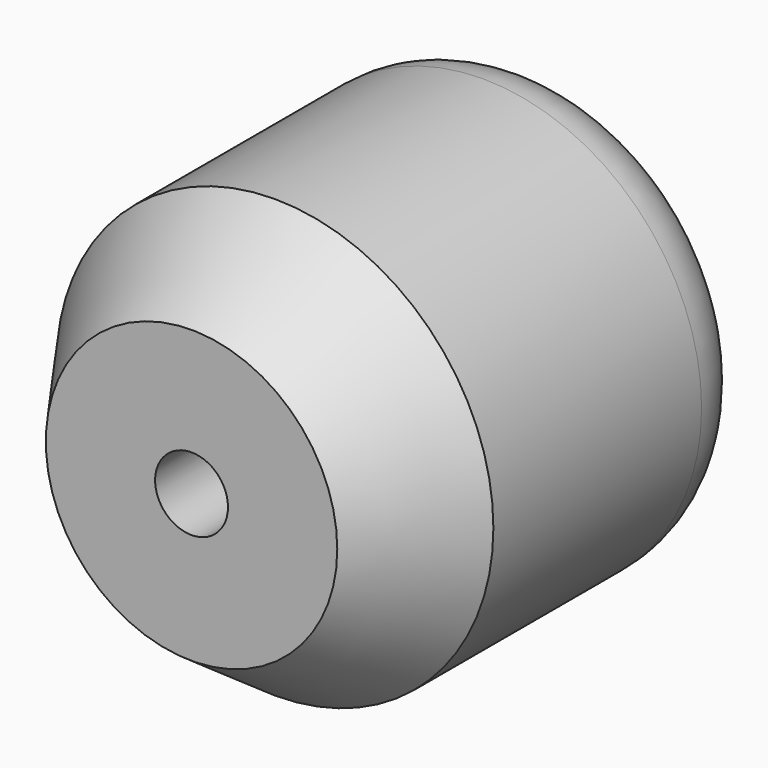
from build123d import *

# Parameters (mm, degrees)
F0_R     = 38.1
F1_DEPTH = 76.2
F2_R     = 12.7
F3_R     = 6.35
F4_DEPTH = 50.8
F5_SIZE2 = 18.1374796856
F5_SIZE  = 12.7


with BuildPart() as f1:
    # F0 (on Front) → F1 (new body)
    with BuildSketch(Plane.XZ):
        Circle(F0_R)
    extrude(amount=F1_DEPTH)

    # F2
    f2_edges = [f1.edges().sort_by_distance(p)[0] for p in [
        (-38.1, 0, 0),
    ]]
    fillet(f2_edges, radius=F2_R)

    # F3 (on face) → F4 (cut)
    with BuildSketch(Plane.XZ.offset(76.2)):
        with Locations((-3.199e-07, 0.2439329255)):
            Circle(F3_R)
    extrude(amount=-F4_DEPTH, mode=Mode.SUBTRACT)

    # F5
    f5_edges = [f1.edges().sort_by_distance(p)[0] for p in [
        (-38.1, -76.2, 0),
    ]]
    f5_side = f1.faces().sort_by_distance((-37.022369, -76.2, 0))[0]
    chamfer(f5_edges, length=F5_SIZE, length2=F5_SIZE2, reference=f5_side)


solid = f1.part
